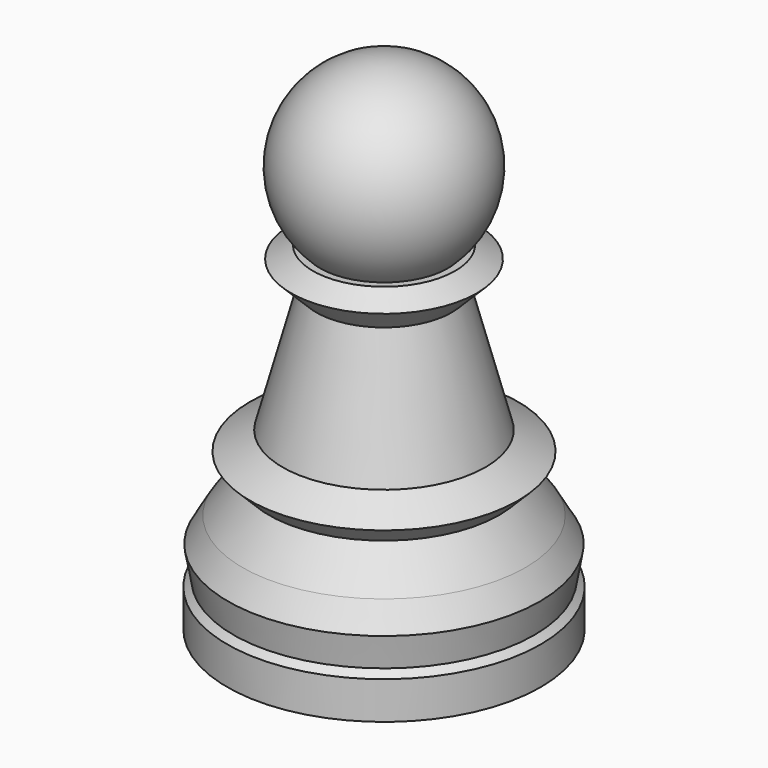
from build123d import *

# Parameters (mm, degrees)
F0_R      = 12.5
F1_DEPTH  = 3
F1_FACE_R = 12.5
F2_DEPTH  = 0.5
F2_TAPER  = 45
F2_FACE_R = 12
F3_DEPTH  = 2.5
F3_TAPER  = -10
F3_FACE_R = 12.4408174518
F4_DEPTH  = 2
F4_TAPER  = 30
F4_FACE_R = 11.2861169134
F5_DEPTH  = 3
F5_TAPER  = 35
F5_FACE_R = 9.1854942988
F6_DEPTH  = 1.5
F6_TAPER  = -45
F6_FACE_R = 10.6854942988
F7_DEPTH  = 1.5
F7_TAPER  = 60
F7_FACE_R = 8.0874180874
F8_DEPTH  = 10
F8_TAPER  = 15
F8_FACE_R = 5.4079261631
F9_DEPTH  = 2
F9_TAPER  = -45
F9_FACE_R = 7.4079261631
F10_DEPTH = 1
F10_TAPER = 60


with BuildPart() as f1:
    # F0 (on Top) → F1 (new body)
    with BuildSketch(Plane.XY):
        Circle(F0_R)
    extrude(amount=F1_DEPTH)

    # F1_face (on face) → F2 (join)
    with BuildSketch(Plane.XY.offset(3)):
        Circle(F1_FACE_R)
    extrude(amount=F2_DEPTH, taper=F2_TAPER)

    # F2_face (on face) → F3 (join)
    with BuildSketch(Plane.XY.offset(3.5)):
        Circle(F2_FACE_R)
    extrude(amount=F3_DEPTH, taper=F3_TAPER)

    # F3_face (on face) → F4 (join)
    with BuildSketch(Plane.XY.offset(6)):
        Circle(F3_FACE_R)
    extrude(amount=F4_DEPTH, taper=F4_TAPER)

    # F4_face (on face) → F5 (join)
    with BuildSketch(Plane.XY.offset(8)):
        Circle(F4_FACE_R)
    extrude(amount=F5_DEPTH, taper=F5_TAPER)

    # F5_face (on face) → F6 (join)
    with BuildSketch(Plane.XY.offset(11)):
        Circle(F5_FACE_R)
    extrude(amount=F6_DEPTH, taper=F6_TAPER)

    # F6_face (on face) → F7 (join)
    with BuildSketch(Plane.XY.offset(12.5)):
        Circle(F6_FACE_R)
    extrude(amount=F7_DEPTH, taper=F7_TAPER)

    # F7_face (on face) → F8 (join)
    with BuildSketch(Plane.XY.offset(14)):
        Circle(F7_FACE_R)
    extrude(amount=F8_DEPTH, taper=F8_TAPER)

    # F8_face (on face) → F9 (join)
    with BuildSketch(Plane.XY.offset(24)):
        Circle(F8_FACE_R)
    extrude(amount=F9_DEPTH, taper=F9_TAPER)

    # F9_face (on face) → F10 (join)
    with BuildSketch(Plane.XY.offset(26)):
        Circle(F9_FACE_R)
    extrude(amount=F10_DEPTH, taper=F10_TAPER)

    # F11 (on Front) → F12 (revolve)
    with BuildSketch(Plane.XZ):
        with BuildLine():
            ThreePointArc((0, 40), (-7.5, 32.5), (0, 25))
            Line((0, 25), (0, 32.5))
            Line((0, 32.5), (0, 40))
        make_face()
    revolve(axis=Axis((0, 0, 16.25), (0, 0, 1)))


solid = f1.part
